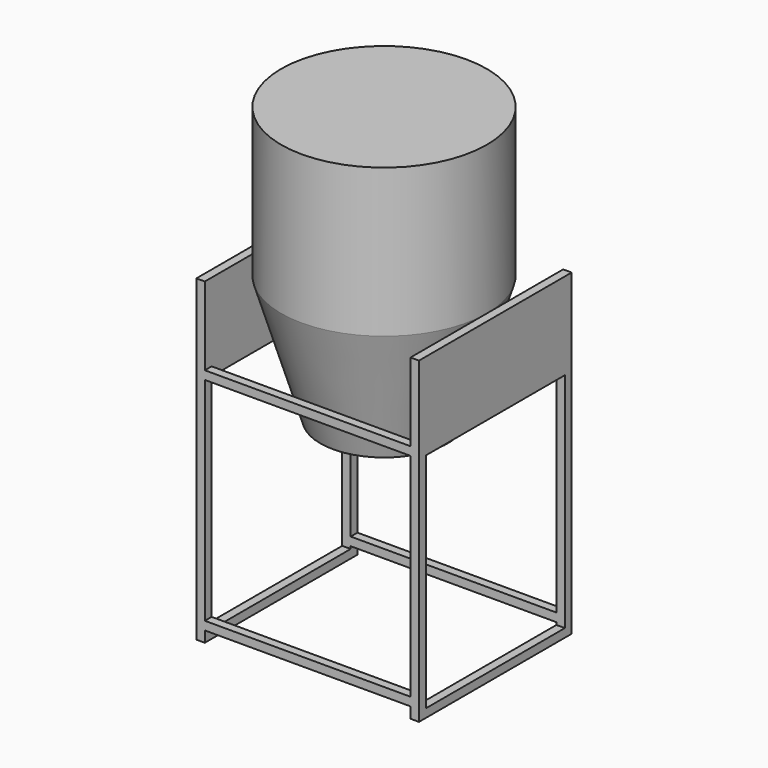
from build123d import *

# Parameters (mm, degrees)
F0_W      = 970
F0_H      = 1000
F1_DEPTH  = 900
F2_W      = 970
F2_H      = 820
F3_DEPTH  = 1448.4977711683
F4_R      = 485
F5_DEPTH  = 700
F9_W      = 820
F9_H      = 1050
F10_DEPTH = 1050.001


with BuildPart() as f1:
    # F0 (on Front) → F1 (new body)
    with BuildSketch(Plane.XZ):
        Polygon((0, 1500), (0, 0), (40, 0), (40, 51.5032288317), (1010, 51.5032288317), (1010, 0), (1050, 0), (1050, 1500), (1010, 1500), (1010, 1131.5032288317), (40, 1131.5032288317), (40, 1500), align=None)
        with Locations((525, 591.5032288317)):
            Rectangle(F0_W, F0_H, mode=Mode.SUBTRACT)
    extrude(amount=F1_DEPTH)

    # F2 (on face) → F3 (cut, through all)
    with BuildSketch(Plane(origin=(0, 0, 51.5032288317), x_dir=(1, 0, 0), z_dir=(0, 0, -1))):
        with Locations((525, 450)):
            Rectangle(F2_W, F2_H)
    extrude(amount=-F3_DEPTH, mode=Mode.SUBTRACT)

    # F4 (on face) → F5 (join)
    with BuildSketch(Plane.XY.offset(1500)):
        with Locations((525, -450)):
            Circle(F4_R)
    extrude(amount=F5_DEPTH)

    # F9 (on face) → F10 (cut, through all)
    with BuildSketch(Plane(origin=(0, 0, 0), x_dir=(0, -1, 0), z_dir=(-1, 0, 0))):
        with Locations((450, 565)):
            Rectangle(F9_W, F9_H)
    extrude(amount=-F10_DEPTH, mode=Mode.SUBTRACT)


with BuildPart() as f8:
    # F7 (on offset) → F8 (revolve)
    with BuildSketch(Plane.XZ.offset(450)):
        Polygon((525, 900), (525, 1500), (40, 1500), (225, 900), align=None)
    revolve(axis=Axis((525, -450, 1200), (0, 0, -1)))


solid = Compound([f1.part, f8.part])
